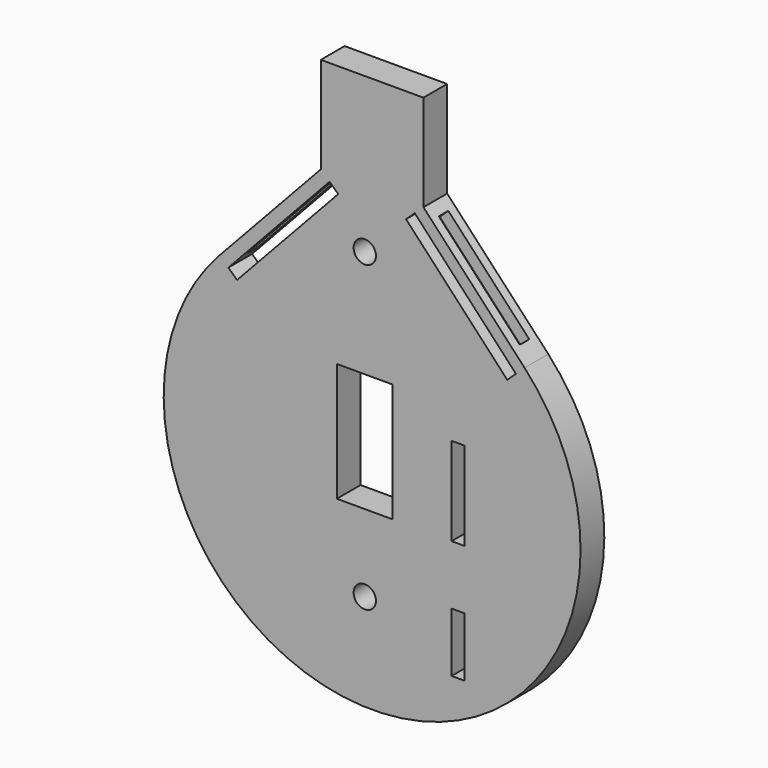
from build123d import *

# Parameters (mm, degrees)
F0_R     = 2.3876
F0_W     = 11.9644477963
F0_H     = 25.4
F0_W_2   = 2.794
F0_H_2   = 12.7
F0_H_3   = 18.8976
F1_DEPTH = 3.175
F3_W     = 2.54
F3_H     = 25.4
F4_DEPTH = 2.54
F6_W     = 2.54
F6_H     = 25.4
F7_DEPTH = 2.54


with BuildPart() as f1:
    # F0 (on Front) → F1 (new body, symmetric)
    with BuildSketch(Plane.XZ):
        with BuildLine():
            Line((-9.4017383467, 23.2221963037), (-31.0533456504, 0))
            ThreePointArc((-31.0533456504, 0), (1.5738401562, -75.0292582617), (34.2010259628, 0))
            Line((34.2010259628, 0), (12.5494186591, 23.2221963037))
            Line((12.5494186591, 23.2221963037), (12.5494186591, 43.8596963037))
            Line((12.5494186591, 43.8596963037), (-9.4017383467, 43.8596963037))
            Line((-9.4017383467, 43.8596963037), (-9.4017383467, 23.2221963037))
        make_face()
        with Locations((0, -54.2525947094)):
            Circle(F0_R, mode=Mode.SUBTRACT)
        with Locations((0, -25.0313151628)):
            Rectangle(F0_W, F0_H, mode=Mode.SUBTRACT)
        with Locations((19.9750838982, -56.7813151628)):
            Rectangle(F0_W_2, F0_H_2, mode=Mode.SUBTRACT)
        with Locations((19.9750838982, -28.2825151628)):
            Rectangle(F0_W_2, F0_H_3, mode=Mode.SUBTRACT)
        Polygon((-29.1955699461, -1.7321285843), (-7.5439626424, 21.4900677194), (-5.6861869381, 19.7579391351), (-27.3377942419, -3.4642571686), align=None, mode=Mode.SUBTRACT)
        with Locations((0, 10.739565827)):
            Circle(F0_R, mode=Mode.SUBTRACT)
        Polygon((8.8338672505, 19.7579391351), (10.6916429548, 21.4900677194), (32.3432502585, -1.7321285843), (30.4854745542, -3.4642571686), align=None, mode=Mode.SUBTRACT)
    extrude(amount=F1_DEPTH, both=True)

    # F3 (on offset) → F4 (cut)
    with BuildSketch(Plane(origin=(-16.6122141895, 0, 15.4886787354), x_dir=(0, -1, 0), z_dir=(-0.7314077576, 0, 0.6819403875))):
        with Locations((0, -4.733831039)):
            Rectangle(F3_W, F3_H)
    extrude(amount=-F4_DEPTH, mode=Mode.SUBTRACT)

    # F6 (on offset) → F7 (cut)
    with BuildSketch(Plane(origin=(18.2960887755, 0, 17.0586676721), x_dir=(0, 1, 0), z_dir=(0.7314077576, 0, 0.6819403875))):
        with Locations((0, -6.8803708986)):
            Rectangle(F6_W, F6_H)
    extrude(amount=-F7_DEPTH, mode=Mode.SUBTRACT)


solid = f1.part
